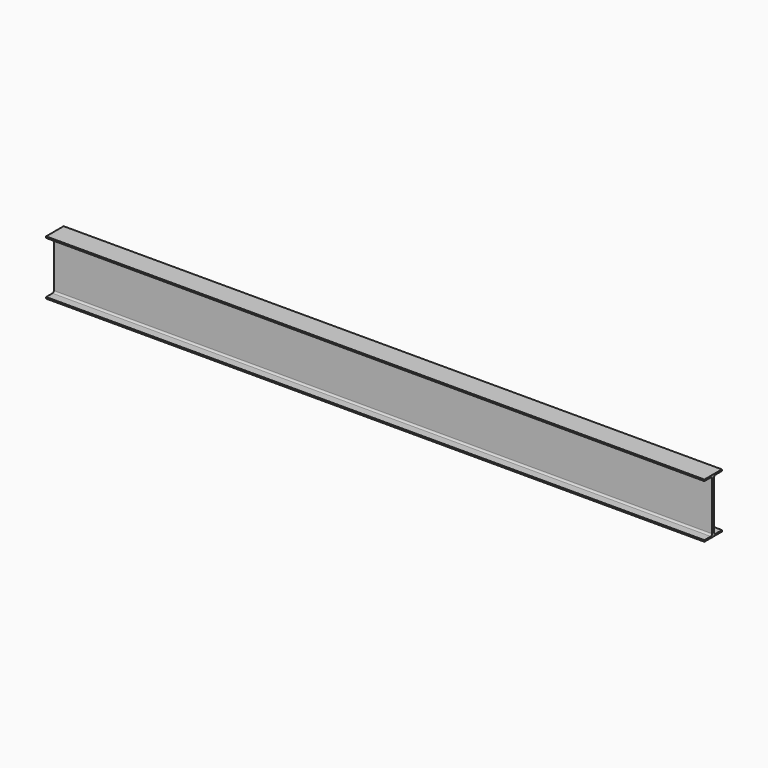
from build123d import *

# Parameters (mm, degrees)
F1_DEPTH = 3048


with BuildPart() as f1:
    # F0 (on Right) → F1 (new body)
    with BuildSketch(Plane.YZ):
        with BuildLine():
            Line((-5.842, 112.2299), (-5.842, 0))
            Line((-5.842, 0), (-5.842, -112.2299))
            ThreePointArc((-5.842, -112.2299), (-8.16684, -117.84256), (-13.7795, -120.1674))
            Line((-13.7795, -120.1674), (-50.8, -120.1674))
            Line((-50.8, -120.1674), (-50.8, -127))
            Line((-50.8, -127), (0, -127))
            Line((0, -127), (50.8, -127))
            Line((50.8, -127), (50.8, -120.1674))
            Line((50.8, -120.1674), (13.7795, -120.1674))
            ThreePointArc((13.7795, -120.1674), (8.16684, -117.84256), (5.842, -112.2299))
            Line((5.842, -112.2299), (5.842, 0))
            Line((5.842, 0), (5.842, 112.2299))
            ThreePointArc((5.842, 112.2299), (8.16684, 117.84256), (13.7795, 120.1674))
            Line((13.7795, 120.1674), (50.8, 120.1674))
            Line((50.8, 120.1674), (50.8, 127))
            Line((50.8, 127), (0, 127))
            Line((0, 127), (-50.8, 127))
            Line((-50.8, 127), (-50.8, 120.1674))
            Line((-50.8, 120.1674), (-13.7795, 120.1674))
            ThreePointArc((-13.7795, 120.1674), (-8.16684, 117.84256), (-5.842, 112.2299))
        make_face()
    extrude(amount=F1_DEPTH)


solid = f1.part
